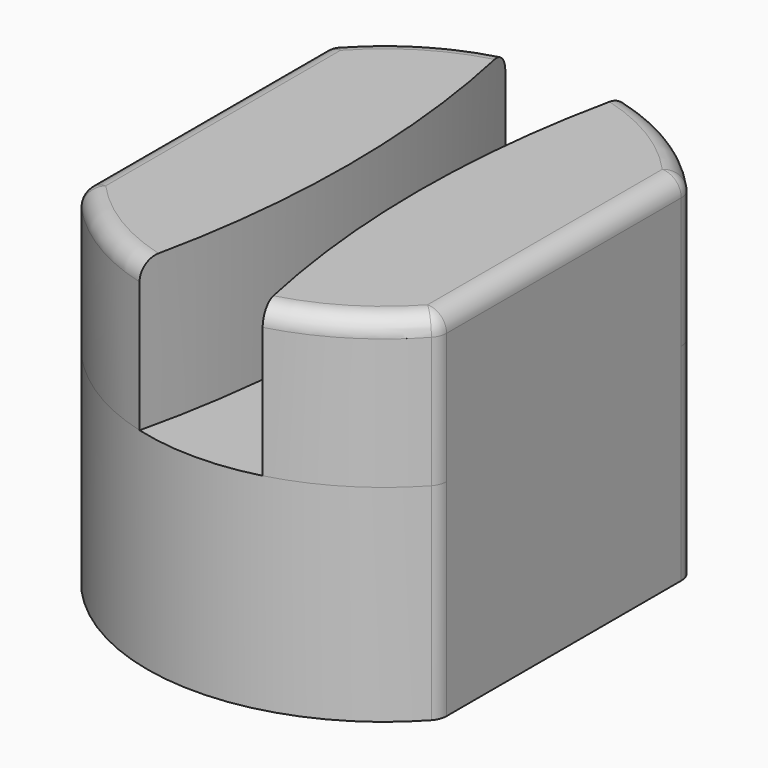
from build123d import *

# Parameters (mm, degrees)
F1_DEPTH = 7.9
F2_R     = 3.95
F3_DEPTH = 10.9
F4_R     = 1
F5_R     = 1


with BuildPart() as f1:
    # F0 (on Top) → F1 (new body)
    with BuildSketch(Plane.XY):
        with BuildLine():
            Line((9.5, -8.1240384046), (9.5, 8.1240384046))
            ThreePointArc((9.5, 8.1240384046), (6.6733417963, 10.5696030801), (3.25, 12.0701077046))
            ThreePointArc((3.25, 12.0701077046), (1.85, 0), (3.25, -12.0701077046))
            ThreePointArc((3.25, -12.0701077046), (6.6733417963, -10.5696030801), (9.5, -8.1240384046))
        make_face()
    extrude(amount=F1_DEPTH)



with BuildPart() as f1b:
    # F0 (on Top) → F1, piece 2 (new body)
    with BuildSketch(Plane.XY):
        with BuildLine():
            ThreePointArc((-3.25, 12.0701077046), (-6.6733417963, 10.5696030801), (-9.5, 8.1240384046))
            Line((-9.5, 8.1240384046), (-9.5, -8.1240384046))
            ThreePointArc((-9.5, -8.1240384046), (-6.6733417963, -10.5696030801), (-3.25, -12.0701077046))
            ThreePointArc((-3.25, -12.0701077046), (-1.85, 0), (-3.25, 12.0701077046))
        make_face()
    extrude(amount=F1_DEPTH)


with BuildPart() as f1_1:
    add(f1.part)

    add(f1b.part)  # F3 merges F1b
    # F2 (on face) → F3 (join)
    with BuildSketch(Plane(origin=(0, 0, 0), x_dir=(1, 0, 0), z_dir=(0, 0, -1))):
        with BuildLine():
            Line((-9.5, 8.1240384046), (-9.5, -8.1240384046))
            ThreePointArc((-9.5, -8.1240384046), (0, -12.5), (9.5, -8.1240384046))
            Line((9.5, -8.1240384046), (9.5, 8.1240384046))
            ThreePointArc((9.5, 8.1240384046), (0, 12.5), (-9.5, 8.1240384046))
        make_face()
        Circle(F2_R, mode=Mode.SUBTRACT)
    extrude(amount=F3_DEPTH)

    # F4
    f4_edges = [f1_1.edges().sort_by_distance(p)[0] for p in [
        (-9.5, -8.124038, -1.5),
        (9.5, -8.124038, -1.5),
        (9.5, 8.124038, -1.5),
        (-9.5, 8.124038, -1.5),
    ]]
    fillet(f4_edges, radius=F4_R)

    # F5
    f5_edges = [f1_1.edges().sort_by_distance(p)[0] for p in [
        (-9.5, 0, 7.9),
        (6.505865, -10.673506, 7.9),
    ]]
    fillet(f5_edges, radius=F5_R)


solid = f1_1.part
